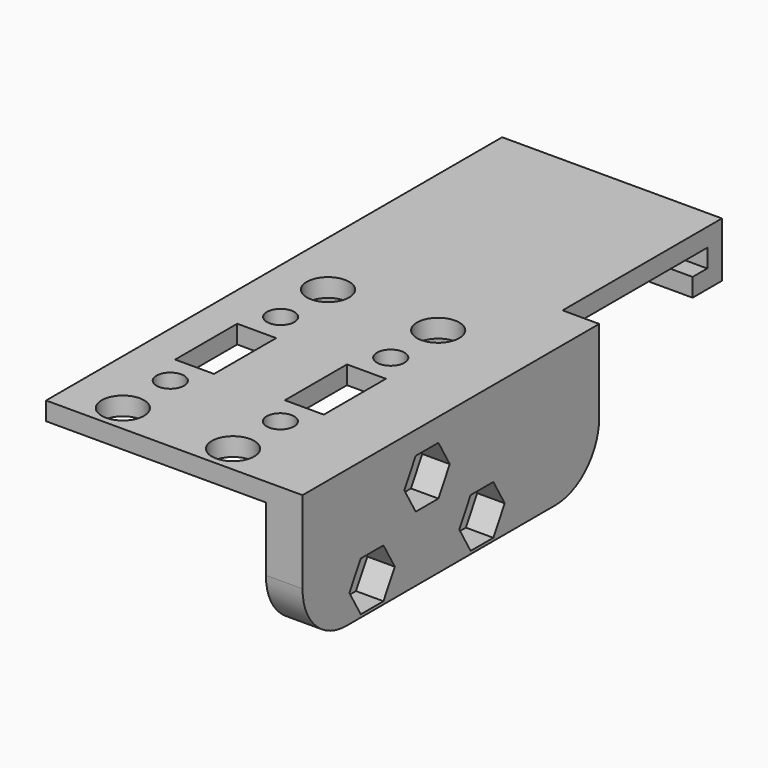
from build123d import *

# Parameters (mm, degrees)
PAD_DEPTH       = 24
SKETCH_R        = 4.625
SKETCH_R_2      = 3
SKETCH_W        = 8.497862
SKETCH_H        = 16.9564
POCKET_DEPTH    = 4
SKETCH003_R     = 2.6
POCKET001_DEPTH = 13
SKETCH005_R     = 3.3
PAD001_DEPTH    = 8
SKETCH004_R     = 3.2
POCKET002_DEPTH = 3
POCKET003_DEPTH = 6
FILLET_R        = 12


with BuildPart() as part:
    # Sketch002 → Pad (new body, symmetric)
    with BuildSketch(Plane.YZ.offset(24)):
        Polygon((0, 4), (56.5, 4), (56.5, -8), (48.5, -8), (48.5, -4), (52.5, -4), (52.5, 0), (13, 0), (13, -13), (0, -13), (0, 0), (-68, 0), (-68, 4), align=None)
    extrude(amount=PAD_DEPTH, both=True)

    # Sketch (on Face13 of Pad) → Pocket (cut)
    with BuildSketch(Plane(origin=(24, -34, 4), x_dir=(-1, 0, 0), z_dir=(0, 0, 1))):
        with Locations((-12.025, 28)):
            Circle(SKETCH_R)
        with Locations((12.025, 28)):
            Circle(SKETCH_R)
        with Locations((12.025, -28)):
            Circle(SKETCH_R)
        with Locations((-12.025, -28)):
            Circle(SKETCH_R)
        with Locations((-12.024955, 15.059916)):
            Circle(SKETCH_R_2)
        with Locations((12.024955, 15.059916)):
            Circle(SKETCH_R_2)
        with Locations((12.024955, -15.059916)):
            Circle(SKETCH_R_2)
        with Locations((-12.024955, -15.059916)):
            Circle(SKETCH_R_2)
        with Locations((-12.001069, 0.0218)):
            Rectangle(SKETCH_W, SKETCH_H)
        with Locations((12.001069, -0.0218)):
            Rectangle(SKETCH_W, SKETCH_H)
    extrude(amount=-POCKET_DEPTH, mode=Mode.SUBTRACT)

    # Sketch003 (on Face30 of Pocket) → Pocket001 (cut)
    with BuildSketch(Plane(origin=(24, 0, 0), x_dir=(0, 0, -1), z_dir=(0, -1, 0))):
        with Locations((9.313336, 0)):
            Circle(SKETCH003_R)
    extrude(amount=-POCKET001_DEPTH, mode=Mode.SUBTRACT)

    # Sketch005 → Pad001 (join)
    with BuildSketch(Plane.YZ.offset(48)):
        Polygon((0, 4), (-68, 4), (-68, -26), (0, -26), (13, -26), (13, 4), align=None)
        with Locations((-49, -20)):
            Circle(SKETCH005_R, mode=Mode.SUBTRACT)
        with Locations((-19, -20)):
            Circle(SKETCH005_R, mode=Mode.SUBTRACT)
        with Locations((-34, -6.37)):
            Circle(SKETCH005_R, mode=Mode.SUBTRACT)
    extrude(amount=PAD001_DEPTH)

    # Sketch004 → Pocket002 (cut)
    with BuildSketch(Plane(origin=(24, 0, 0), x_dir=(0, 0, -1), z_dir=(0, -1, 0))):
        with Locations((9.313336, 0)):
            Circle(SKETCH004_R)
    extrude(amount=-POCKET002_DEPTH, mode=Mode.SUBTRACT)

    # Sketch006 (on Face35 of Pocket002) → Pocket003 (cut)
    with BuildSketch(Plane.YZ.offset(56)):
        Polygon((-42.8, -20), (-45.9, -14.630642), (-52.1, -14.630642), (-55.2, -20), (-52.1, -25.369358), (-45.9, -25.369358), align=None)
        Polygon((-27.8, -6.37), (-30.9, -1.000642), (-37.1, -1.000642), (-40.2, -6.37), (-37.1, -11.739358), (-30.9, -11.739358), align=None)
        Polygon((-12.8, -20), (-15.9, -14.630642), (-22.1, -14.630642), (-25.2, -20), (-22.1, -25.369358), (-15.9, -25.369358), align=None)
    extrude(amount=-POCKET003_DEPTH, mode=Mode.SUBTRACT)

    # Fillet
    fillet_edges = [part.edges().sort_by_distance(p)[0] for p in [
        (52, -68, -26),
        (52, 13, -26),
        (0, 6.5, -13),
    ]]
    fillet(fillet_edges, radius=FILLET_R)


solid = part.part
